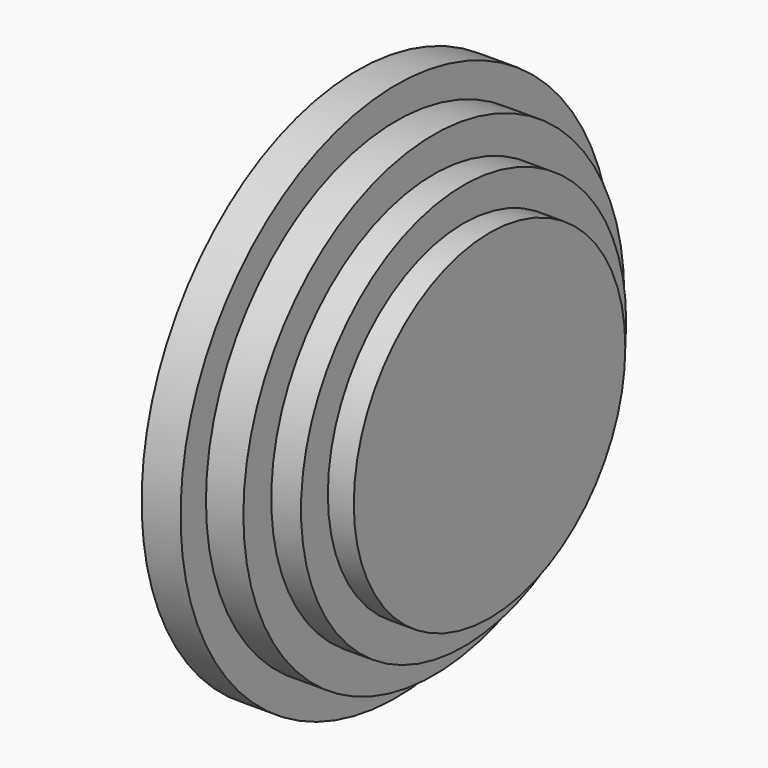
from build123d import *

# Parameters (mm, degrees)
F0_R     = 89.756826
F4_DEPTH = 12.954
F1_R     = 79.193575
F5_DEPTH = 25.4
F2_R     = 67.606004
F6_DEPTH = 35.306
F3_R     = 56.449145
F7_DEPTH = 43.942


with BuildPart() as f4:
    # F0 (on Right) → F4 (new body)
    with BuildSketch(Plane.YZ):
        Circle(F0_R)
    extrude(amount=F4_DEPTH)

    # F1 (on Right) → F5 (join)
    with BuildSketch(Plane.YZ):
        Circle(F1_R)
    extrude(amount=F5_DEPTH)

    # F2 (on Right) → F6 (join)
    with BuildSketch(Plane.YZ):
        Circle(F2_R)
    extrude(amount=F6_DEPTH)

    # F3 (on Right) → F7 (join)
    with BuildSketch(Plane.YZ):
        Circle(F3_R)
    extrude(amount=F7_DEPTH)


solid = f4.part
